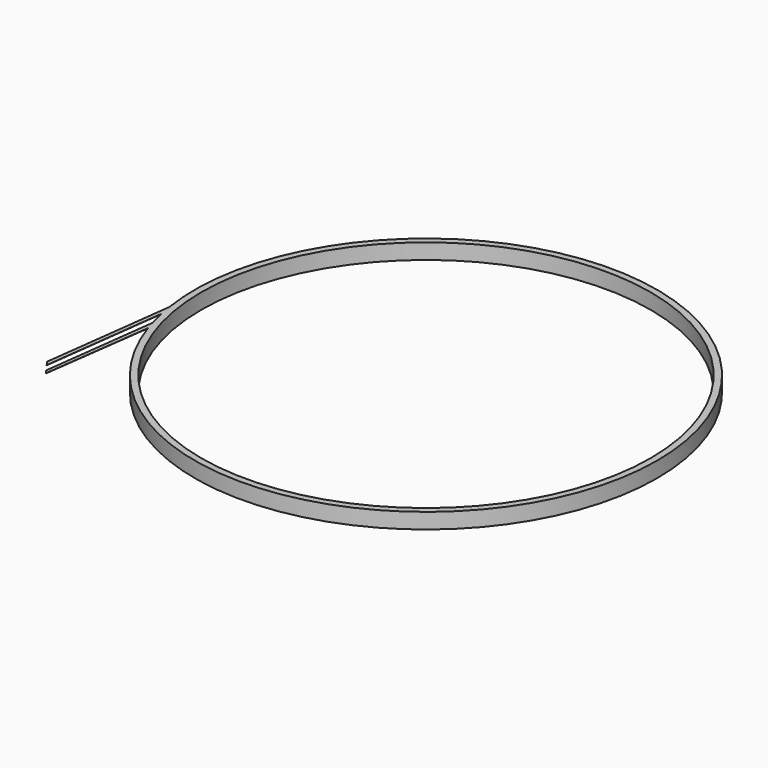
from build123d import *

# Parameters (mm, degrees)
F0_R     = 26.5
F0_R_2   = 25.75
F1_DEPTH = 1.778
F3_DEPTH = 0.025


with BuildPart() as f1:
    # F0 (on Top) → F1 (new body)
    with BuildSketch(Plane.XY):
        Circle(F0_R)
        Circle(F0_R_2, mode=Mode.SUBTRACT)
    extrude(amount=F1_DEPTH)

    # F2 (on face) → F3 (join)
    with BuildSketch(Plane.XY.offset(1.778)):
        with BuildLine():
            Line((-26.18986, -4.042426), (-28.11516, -19.119042))
            Line((-28.11516, -19.119042), (-27.728492, -19.675638))
            Line((-27.728492, -19.675638), (-25.920018, -5.51386))
            ThreePointArc((-25.920018, -5.51386), (-26.065325, -4.780047), (-26.18986, -4.042426))
        make_face()
        with BuildLine():
            Line((-27.12726, -20.496628), (-26.793927, -20.930492))
            Line((-26.793927, -20.930492), (-25.123243, -8.430459))
            ThreePointArc((-25.123243, -8.430459), (-25.293123, -7.906196), (-25.452063, -7.378514))
            Line((-25.452063, -7.378514), (-27.12726, -20.496628))
        make_face()
    extrude(amount=-F3_DEPTH)


solid = f1.part
